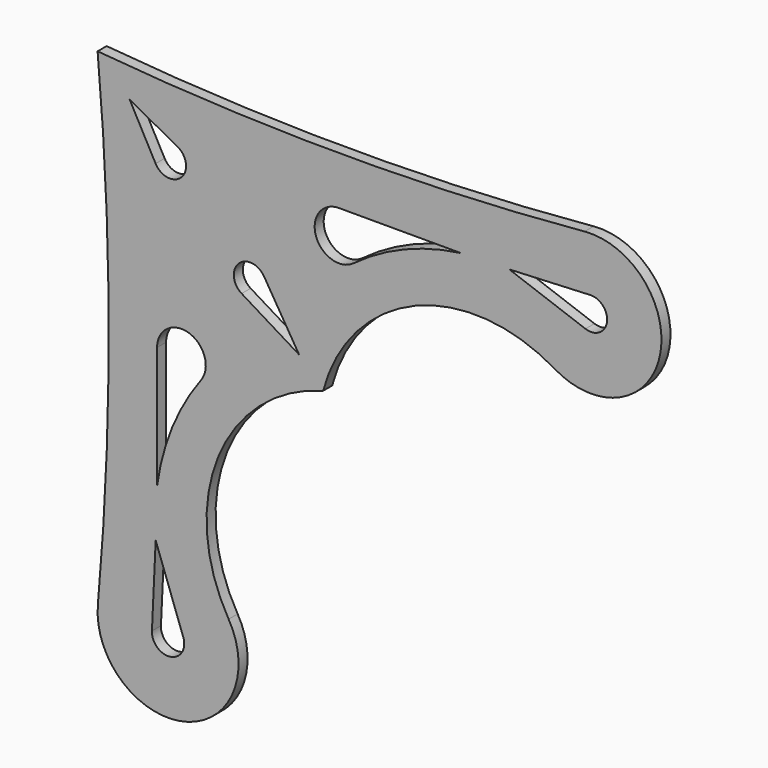
from build123d import *

# Parameters (mm, degrees)
F1_DEPTH = 2


with BuildPart() as f1:
    # F0 (on Front) → F1 (new body)
    with BuildSketch(Plane.XZ):
        with BuildLine():
            ThreePointArc((0, 0), (1.979251, -43.188101), (0.050414, -86.378482))
            ThreePointArc((0.050414, -86.378482), (15.271974, -99.688772), (23.240104, -81.104677))
            ThreePointArc((23.240104, -81.104677), (21.383171, -56.378384), (40, -40))
            ThreePointArc((40, -40), (56.378384, -21.383171), (81.104677, -23.240104))
            ThreePointArc((81.104677, -23.240104), (99.688772, -15.271974), (86.378482, -0.050414))
            ThreePointArc((86.378482, -0.050414), (43.188101, -1.979251), (0, 0))
        make_face()
        with BuildLine():
            ThreePointArc((15.193833, -86.525296), (12.929513, -90.332367), (9.638306, -87.367761))
            Line((9.638306, -87.367761), (10.301987, -73.005483))
            Line((10.301987, -73.005483), (15.193833, -86.525296))
        make_face(mode=Mode.SUBTRACT)
        with BuildLine():
            ThreePointArc((10.55135, -42.814374), (16.230256, -38.716628), (18.329046, -45.397689))
            ThreePointArc((18.329046, -45.397689), (13.22921, -54.414622), (10.55135, -64.421743))
            Line((10.55135, -64.421743), (10.55135, -42.814374))
        make_face(mode=Mode.SUBTRACT)
        with BuildLine():
            ThreePointArc((25.542657, -29.515467), (24.178852, -27.390774), (25.00505, -25.00505))
            ThreePointArc((25.00505, -25.00505), (27.390774, -24.178852), (29.515467, -25.542657))
            Line((29.515467, -25.542657), (35.743451, -35.743451))
            Line((35.743451, -35.743451), (25.542657, -29.515467))
        make_face(mode=Mode.SUBTRACT)
        with BuildLine():
            ThreePointArc((14.849353, -14.849353), (12.401985, -15.661348), (10.288082, -14.184744))
            Line((10.288082, -14.184744), (5.692576, -5.692576))
            Line((5.692576, -5.692576), (14.184744, -10.288082))
            ThreePointArc((14.184744, -10.288082), (15.661348, -12.401985), (14.849353, -14.849353))
        make_face(mode=Mode.SUBTRACT)
        with BuildLine():
            ThreePointArc((64.421743, -10.55135), (54.414622, -13.22921), (45.397689, -18.329046))
            ThreePointArc((45.397689, -18.329046), (38.716628, -16.230256), (42.814374, -10.55135))
            Line((42.814374, -10.55135), (64.421743, -10.55135))
        make_face(mode=Mode.SUBTRACT)
        with BuildLine():
            Line((86.525296, -15.193833), (73.005483, -10.301987))
            Line((73.005483, -10.301987), (87.367761, -9.638306))
            ThreePointArc((87.367761, -9.638306), (90.332367, -12.929513), (86.525296, -15.193833))
        make_face(mode=Mode.SUBTRACT)
    extrude(amount=F1_DEPTH)


solid = f1.part
